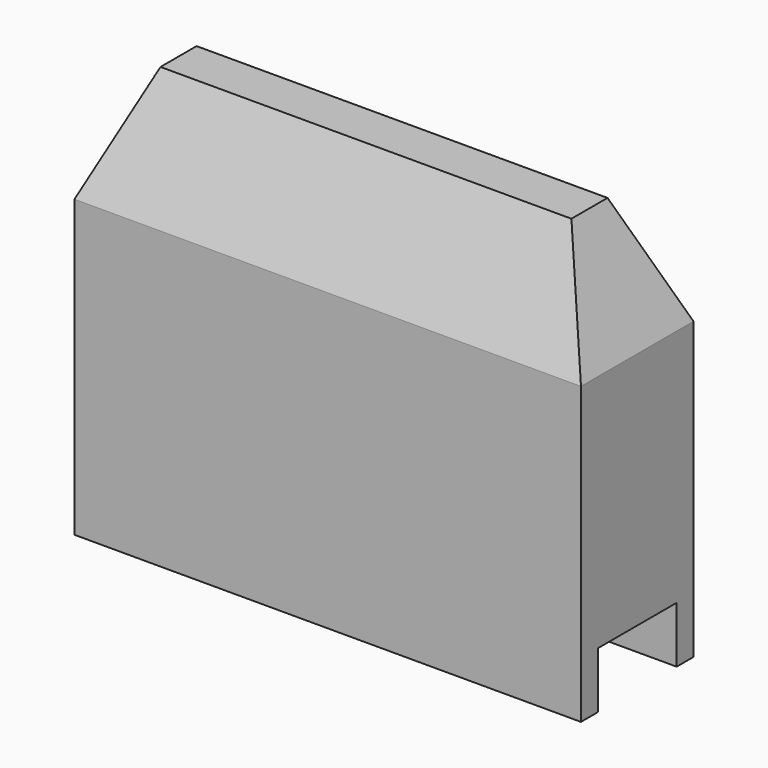
from build123d import *

# Parameters (mm, degrees)
SKETCH_W        = 18
SKETCH_H        = 5
PAD_DEPTH       = 4
PAD_TAPER       = 23
PAD_FACE5_W     = 5
PAD_FACE5_H     = 18
PAD001_DEPTH    = 10.5
SKETCH001_W     = 16.5
SKETCH001_H     = 3.5
POCKET_DEPTH    = 10.5
SKETCH002_W     = 16.5
SKETCH002_H     = 3.5
POCKET001_DEPTH = 3
POCKET001_TAPER = 22
SKETCH003_W     = 18.711727
SKETCH003_H     = 3.5
POCKET002_DEPTH = 2


with BuildPart() as part:
    # Sketch → Pad (new body)
    with BuildSketch(Plane.XY):
        Rectangle(SKETCH_W, SKETCH_H)
    extrude(amount=PAD_DEPTH, taper=PAD_TAPER)

    # Pad Face5 → Pad001 (add)
    with BuildSketch(Plane(origin=(0, 0, 0), x_dir=(0, -1, 0), z_dir=(0, 0, -1))):
        Rectangle(PAD_FACE5_W, PAD_FACE5_H)
    extrude(amount=PAD001_DEPTH)

    # Sketch001 (on Face8 of Pad001) → Pocket (cut)
    with BuildSketch(Plane(origin=(0, 0, -10.5), x_dir=(1, 0, 0), z_dir=(0, 0, -1))):
        Rectangle(SKETCH001_W, SKETCH001_H)
    extrude(amount=-POCKET_DEPTH, mode=Mode.SUBTRACT)

    # Sketch002 (on Face15 of Pocket) → Pocket001 (cut)
    with BuildSketch(Plane(origin=(0, 0, 0), x_dir=(1, 0, 0), z_dir=(0, 0, -1))):
        Rectangle(SKETCH002_W, SKETCH002_H)
    extrude(amount=-POCKET001_DEPTH, taper=POCKET001_TAPER, mode=Mode.SUBTRACT)

    # Sketch003 (on Face8 of Pocket001) → Pocket002 (cut)
    with BuildSketch(Plane(origin=(0, 0, -10.5), x_dir=(1, 0, 0), z_dir=(0, 0, -1))):
        with Locations((0.078186, 0)):
            Rectangle(SKETCH003_W, SKETCH003_H)
    extrude(amount=-POCKET002_DEPTH, mode=Mode.SUBTRACT)


solid = part.part
